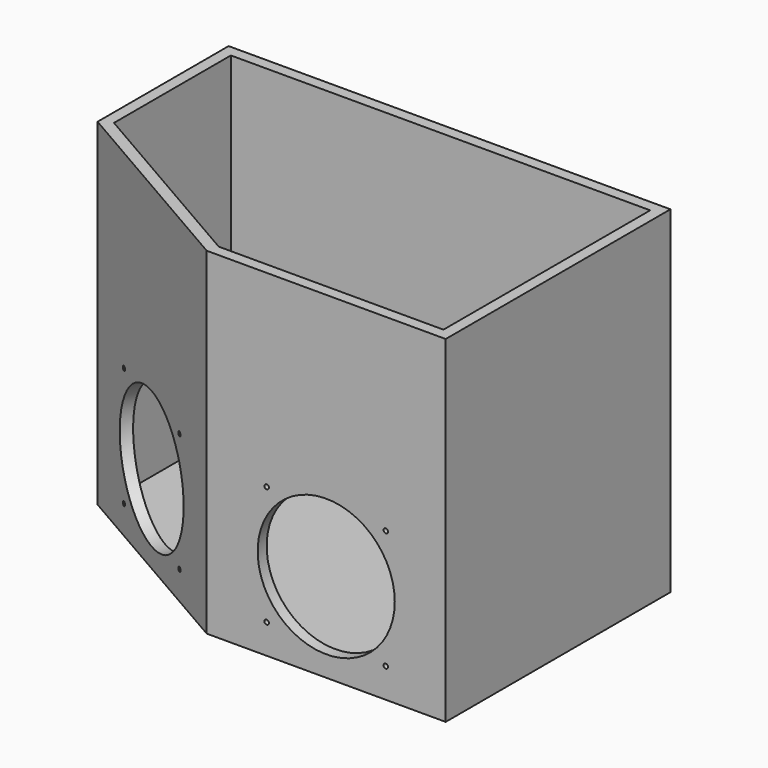
from build123d import *

# Parameters (mm, degrees)
F1_DEPTH = 3
F2_DEPTH = 150
F3_R     = 30.5
F3_R_2   = 1
F4_DEPTH = 5
F5_R     = 30.5
F5_R_2   = 1
F6_DEPTH = 5


with BuildPart() as f1:
    # F0 (on Top) → F1 (new body)
    with BuildSketch(Plane.XY):
        Polygon((-91.6025403784, 38.2228657698), (-91.6025403784, -34.6638855762), (-1.3397459622, -86.7771342302), (105, -86.7771342302), (105, 38.2228657698), align=None)
        Polygon((100, -81.7771342302), (0, -81.7771342302), (-86.6025403784, -31.7771342302), (-86.6025403784, 33.2228657698), (100, 33.2228657698), align=None, mode=Mode.SUBTRACT)
        Polygon((-86.6025403784, -31.7771342302), (0, -81.7771342302), (100, -81.7771342302), (100, 33.2228657698), (-86.6025403784, 33.2228657698), align=None)
    extrude(amount=F1_DEPTH)

    # F0 (on Top) → F2 (join)
    with BuildSketch(Plane.XY):
        Polygon((-91.6025403784, 38.2228657698), (-91.6025403784, -34.6638855762), (-1.3397459622, -86.7771342302), (105, -86.7771342302), (105, 38.2228657698), align=None)
        Polygon((100, -81.7771342302), (0, -81.7771342302), (-86.6025403784, -31.7771342302), (-86.6025403784, 33.2228657698), (100, 33.2228657698), align=None, mode=Mode.SUBTRACT)
    extrude(amount=F2_DEPTH)

    # F3 (on face) → F4 (cut)
    with BuildSketch(Plane.XZ.offset(86.7771342302)):
        with Locations((51.8301270189, 39.6802276373)):
            Circle(F3_R)
        with Locations((25.3301270189, 13.1802276373)):
            Circle(F3_R_2)
        with Locations((78.3301270189, 13.1802276373)):
            Circle(F3_R_2)
        with Locations((78.3301270189, 66.1802276373)):
            Circle(F3_R_2)
        with Locations((25.3301270189, 66.1802276373)):
            Circle(F3_R_2)
    extrude(amount=-F4_DEPTH, mode=Mode.SUBTRACT)

    # F5 (on face) → F6 (cut)
    with BuildSketch(Plane(origin=(-37.910537846, -65.6629776916, 0), x_dir=(0.8660254038, -0.5, 0), z_dir=(-0.5, -0.8660254038, 0))):
        with Locations((-10.3275869042, 39.1066893935)):
            Circle(F5_R)
        with Locations((16.1724130958, 65.6066893935)):
            Circle(F5_R_2)
        with Locations((16.1724130958, 12.6066893935)):
            Circle(F5_R_2)
        with Locations((-36.8275869042, 65.6066893935)):
            Circle(F5_R_2)
        with Locations((-36.8275869042, 12.6066893935)):
            Circle(F5_R_2)
    extrude(amount=-F6_DEPTH, mode=Mode.SUBTRACT)


solid = f1.part
